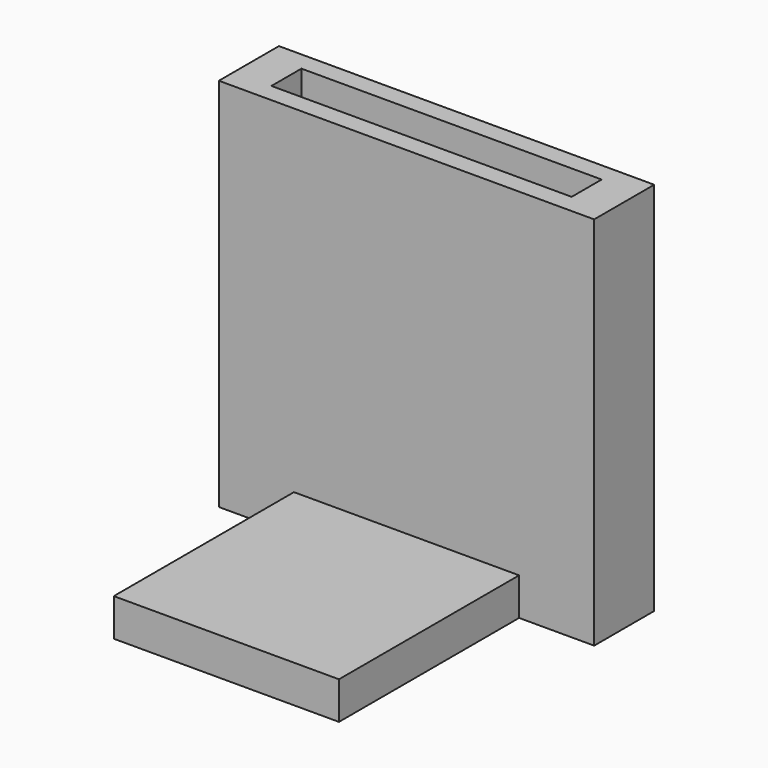
from build123d import *

# Parameters (mm, degrees)
F0_W     = 40
F0_H     = 5
F1_DEPTH = 50
F0_W_2   = 30
F0_H_2   = 30
F2_DEPTH = 5


with BuildPart() as f1:
    # F0 (on Top) → F1 (new body)
    with BuildSketch(Plane.XY):
        Polygon((25, 10), (-25, 10), (-25, 0), (-15, 0), (15, 0), (25, 0), align=None)
        with Locations((0, 5)):
            Rectangle(F0_W, F0_H, mode=Mode.SUBTRACT)
    extrude(amount=F1_DEPTH)

    # F0 (on Top) → F2 (join)
    with BuildSketch(Plane.XY):
        with Locations((0, -15)):
            Rectangle(F0_W_2, F0_H_2)
        with Locations((0, 5)):
            Rectangle(F0_W, F0_H)
    extrude(amount=F2_DEPTH)


solid = f1.part
